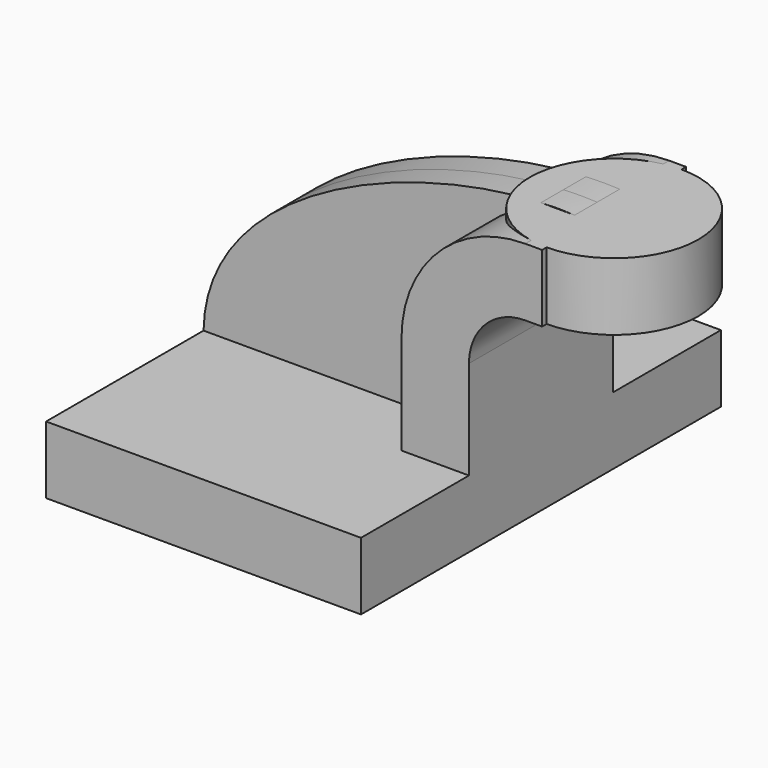
from build123d import *

# Parameters (mm, degrees)
F1_DEPTH = 63.5
F2_DEPTH = 25.4
F3_DEPTH = 7.9375
F0_W     = 23.8009692669
F0_H     = 19.05


with BuildPart() as f1:
    # F0 (on Front) → F1 (new body, symmetric)
    with BuildSketch(Plane.XZ):
        Polygon((25.4, 9.525), (-44.45, 9.525), (-44.45, -9.525), (44.45, -9.525), (44.45, 9.525), align=None)
    extrude(amount=F1_DEPTH, both=True)

    # F0 (on Front) → F2 (join, symmetric)
    with BuildSketch(Plane.XZ):
        with BuildLine():
            Line((25.4, 37.3717802988), (25.4, 9.525))
            Line((25.4, 9.525), (44.45, 9.525))
            Line((44.45, 9.525), (44.45, 37.3717802988))
            ThreePointArc((44.45, 37.3717802988), (49.0996798487, 48.5971004502), (60.325, 53.2467802988))
            Line((60.325, 53.2467802988), (65.0990307331, 53.2467802988))
            Line((65.0990307331, 53.2467802988), (65.0990307331, 72.2967802988))
            Line((65.0990307331, 72.2967802988), (60.325, 72.2967802988))
            ThreePointArc((60.325, 72.2967802988), (35.6292956671, 62.0674846318), (25.4, 37.3717802988))
        make_face()
    extrude(amount=F2_DEPTH, both=True)

    # F0 (on Front) → F3 (join, symmetric)
    with BuildSketch(Plane.XZ):
        with BuildLine():
            add(Edge.make_bspline(
                [(-44.45, 9.525), (-43.8166595995, 50.4934750497), (21.2823729962, 74.2796584964), (60.325, 72.2967802988)],
                knots=[0, 0, 0, 0, 122.139661973, 122.139661973, 122.139661973, 122.139661973], degree=3))
            Line((-44.45, 9.525), (25.4, 9.525))
            Line((25.4, 9.525), (25.4, 37.3717802988))
            ThreePointArc((25.4, 37.3717802988), (35.6292956671, 62.0674846318), (60.325, 72.2967802988))
        make_face()
    extrude(amount=F3_DEPTH, both=True)

    # F0 (on Front) → F4 (revolve)
    with BuildSketch(Plane.XZ):
        with Locations((76.9995153666, 62.7717802988)):
            Rectangle(F0_W, F0_H)
    revolve(axis=Axis((65.0990307331, 0, 63.4473668933), (0, 0, -1)))


solid = f1.part
